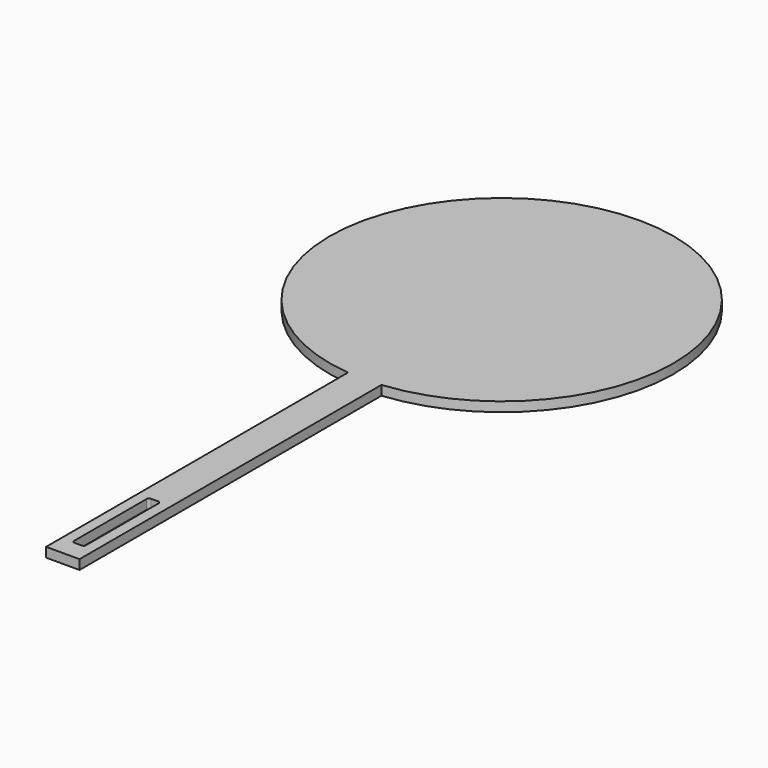
from build123d import *

# Parameters (mm, degrees)
F1_DEPTH = 2


with BuildPart() as f1:
    # F0 (on Top) → F1 (new body)
    with BuildSketch(Plane.XY):
        with BuildLine():
            Line((0, 79), (0, 0))
            Line((0, 0), (7, 0))
            Line((7, 0), (7, 79))
            ThreePointArc((7, 79), (3.5, 150.829457), (0, 79))
        make_face()
        with BuildLine():
            ThreePointArc((2.25, 23.5), (2.396447, 23.853553), (2.75, 24))
            Line((2.75, 24), (4.25, 24))
            ThreePointArc((4.25, 24), (4.603553, 23.853553), (4.75, 23.5))
            Line((4.75, 23.5), (4.75, 4.5))
            ThreePointArc((4.75, 4.5), (4.603553, 4.146447), (4.25, 4))
            Line((4.25, 4), (2.75, 4))
            ThreePointArc((2.75, 4), (2.396447, 4.146447), (2.25, 4.5))
            Line((2.25, 4.5), (2.25, 23.5))
        make_face(mode=Mode.SUBTRACT)
    extrude(amount=F1_DEPTH)


solid = f1.part
